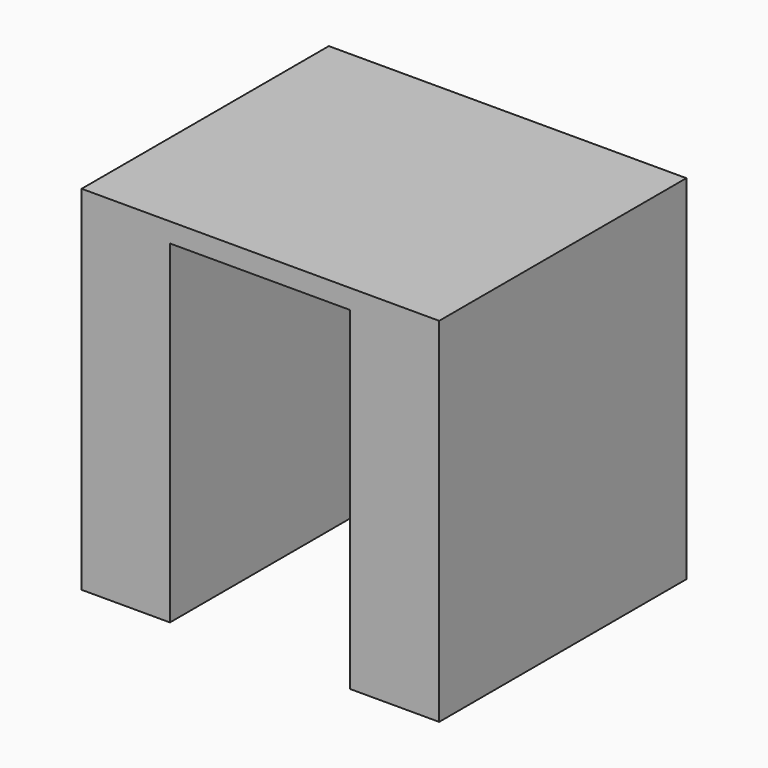
from build123d import *

# Parameters (mm, degrees)
BOX003_W     = 12.25
BOX003_H     = 23.78
BOX003_DEPTH = 22.68
BOX004_W     = 24.3
BOX004_H     = 21
BOX004_DEPTH = 24


with BuildPart() as servo001:
    # Box003 → Box003 (new body)
    with BuildSketch(Plane(origin=(0, -1, 0), x_dir=(1, 0, 0), z_dir=(0, 0, 1))):
        with Locations((6.125, 11.89)):
            Rectangle(BOX003_W, BOX003_H)
    extrude(amount=BOX003_DEPTH)


with BuildPart() as cut001:
    # Box004 → Box004 (new body)
    with BuildSketch(Plane(origin=(-6, 0, 0), x_dir=(1, 0, 0), z_dir=(0, 0, 1))):
        with Locations((12.15, 10.5)):
            Rectangle(BOX004_W, BOX004_H)
    extrude(amount=BOX004_DEPTH)

    # Cut001: cut servo001
    add(servo001.part, mode=Mode.SUBTRACT)


solid = cut001.part
